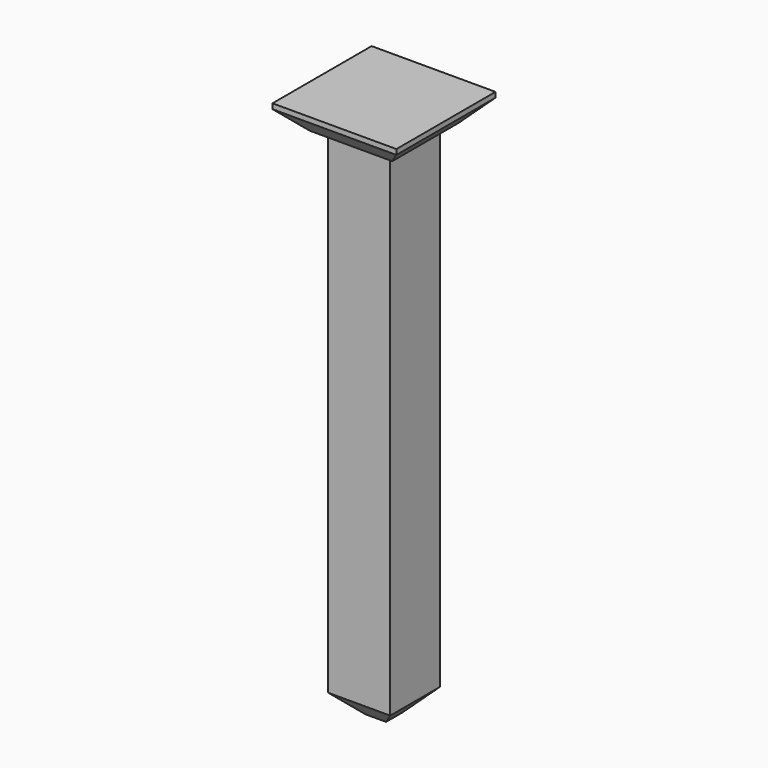
from build123d import *

# Parameters (mm, degrees)
SKETCH002_W     = 0.6
SKETCH002_H     = 0.6
PAD002_DEPTH    = 5
SKETCH003_W     = 1.2
SKETCH003_H     = 1.2
PAD003_DEPTH    = 0.25
CHAMFER002_SIZE = 0.2
CHAMFER003_SIZE = 0.2


with BuildPart() as part:
    # Sketch002 → Pad002 (new body)
    with BuildSketch(Plane.XY):
        Rectangle(SKETCH002_W, SKETCH002_H)
    extrude(amount=PAD002_DEPTH)

    # Sketch003 (on Face6 of Pad002) → Pad003 (join)
    with BuildSketch(Plane.XY.offset(5)):
        Rectangle(SKETCH003_W, SKETCH003_H)
    extrude(amount=PAD003_DEPTH)

    # Chamfer002
    chamfer002_edges = [part.edges().sort_by_distance(p)[0] for p in [
        (0, -0.3, 0),
        (0.3, 0, 0),
        (0, 0.3, 0),
        (-0.3, 0, 0),
    ]]
    chamfer(chamfer002_edges, length=CHAMFER002_SIZE)

    # Chamfer003
    chamfer003_edges = [part.edges().sort_by_distance(p)[0] for p in [
        (-0.6, 0, 5),
        (0, 0.6, 5),
        (0.6, 0, 5),
        (0, -0.6, 5),
    ]]
    chamfer(chamfer003_edges, length=CHAMFER003_SIZE)


with BuildPart() as part_1:
    # Body001 placement: moved
    add(part.part.moved(Location((0, -22.86, 3.3))))


solid = part_1.part
